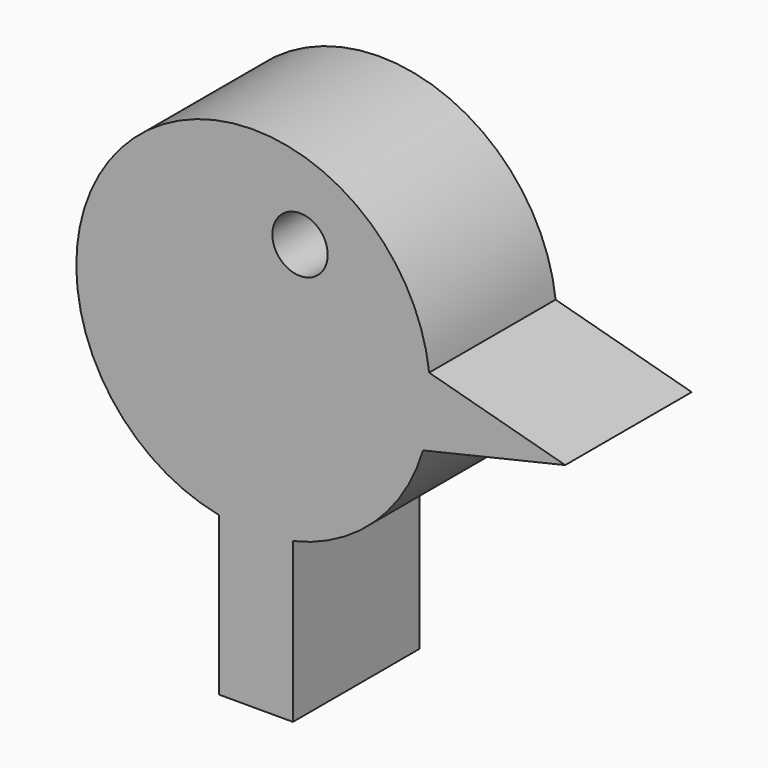
from build123d import *

# Parameters (mm, degrees)
F0_R     = 4.446176
F1_DEPTH = 25.4


with BuildPart() as f1:
    # F0 (on Front) → F1 (new body)
    with BuildSketch(Plane.XZ):
        with BuildLine():
            ThreePointArc((27.262543, -8.093622), (28.143037, -4.089309), (28.438582, 0))
            ThreePointArc((28.438582, 0), (28.392606, 1.616437), (28.254827, 3.227648))
            ThreePointArc((28.254827, 3.227648), (-19.268549, 20.915926), (-5.529564, -27.895822))
            ThreePointArc((-5.529564, -27.895822), (0.429583, -28.435337), (6.369713, -27.716055))
            ThreePointArc((6.369713, -27.716055), (19.469004, -20.729468), (27.262543, -8.093622))
        make_face()
        with Locations((7.510159, 14.593512)):
            Circle(F0_R, mode=Mode.SUBTRACT)
        with BuildLine():
            ThreePointArc((28.254827, 3.227648), (28.392606, 1.616437), (28.438582, 0))
            ThreePointArc((28.438582, 0), (28.143037, -4.089309), (27.262543, -8.093622))
            Line((27.262543, -8.093622), (50.118111, -2.741527))
            Line((50.118111, -2.741527), (28.254827, 3.227648))
        make_face()
        with BuildLine():
            ThreePointArc((6.369713, -27.716055), (0.429583, -28.435337), (-5.529564, -27.895822))
            Line((-5.529564, -27.895822), (-5.529564, -53.295822))
            Line((-5.529564, -53.295822), (6.369713, -53.295822))
            Line((6.369713, -53.295822), (6.369713, -27.716055))
        make_face()
    extrude(amount=F1_DEPTH)


solid = f1.part
